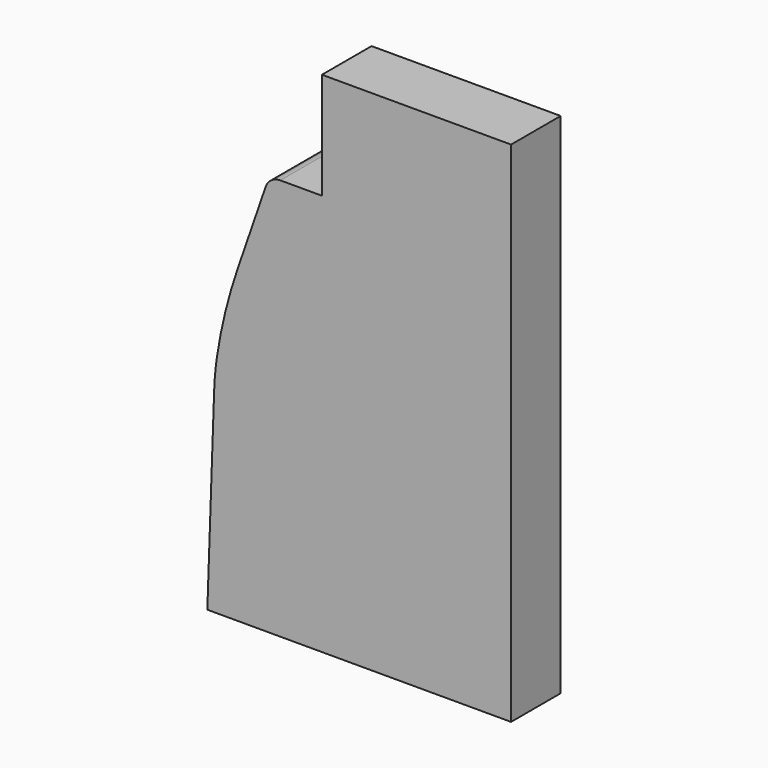
from build123d import *

# Parameters (mm, degrees)
F1_DEPTH = 4
F2_R     = 1


with BuildPart() as f1:
    # F0 (on Front) → F1 (new body)
    with BuildSketch(Plane.XZ):
        with BuildLine():
            ThreePointArc((-80.802066, 43.599431), (-81.593796, 40.905876), (-82.136211, 38.151269))
            ThreePointArc((-82.136211, 38.151269), (-82.25222, 37.191178), (-82.313447, 36.226044))
            Line((-82.313447, 36.226044), (-82.753958, 23.611469))
            Line((-82.753958, 23.611469), (-63.160496, 23.611469))
            Line((-63.160496, 23.611469), (-63.160496, 56.398974))
            Line((-63.160496, 56.398974), (-75.360496, 56.398974))
            Line((-75.360496, 56.398974), (-75.360496, 49.526044))
            Line((-75.360496, 49.526044), (-78.76137, 49.526044))
            Line((-78.76137, 49.526044), (-80.802066, 43.599431))
        make_face()
        with BuildLine():
            Line((-72.160496, 39.720159), (-81.760496, 36.226044))
            ThreePointArc((-81.760496, 36.226044), (-80.84917, 41.394429), (-79.054209, 46.326044))
            Line((-79.054209, 46.326044), (-72.160496, 46.326044))
            Line((-72.160496, 46.326044), (-72.160496, 39.720159))
        make_face(mode=Mode.SUBTRACT)
        with BuildLine():
            ThreePointArc((-79.054209, 46.326044), (-80.84917, 41.394429), (-81.760496, 36.226044))
            Line((-81.760496, 36.226044), (-72.160496, 39.720159))
            Line((-72.160496, 39.720159), (-72.160496, 46.326044))
            Line((-72.160496, 46.326044), (-79.054209, 46.326044))
        make_face()
    extrude(amount=F1_DEPTH)

    # F2
    f2_edges = [f1.edges().sort_by_distance(p)[0] for p in [
        (-78.76137, -2, 49.526044),
    ]]
    fillet(f2_edges, radius=F2_R)


solid = f1.part
